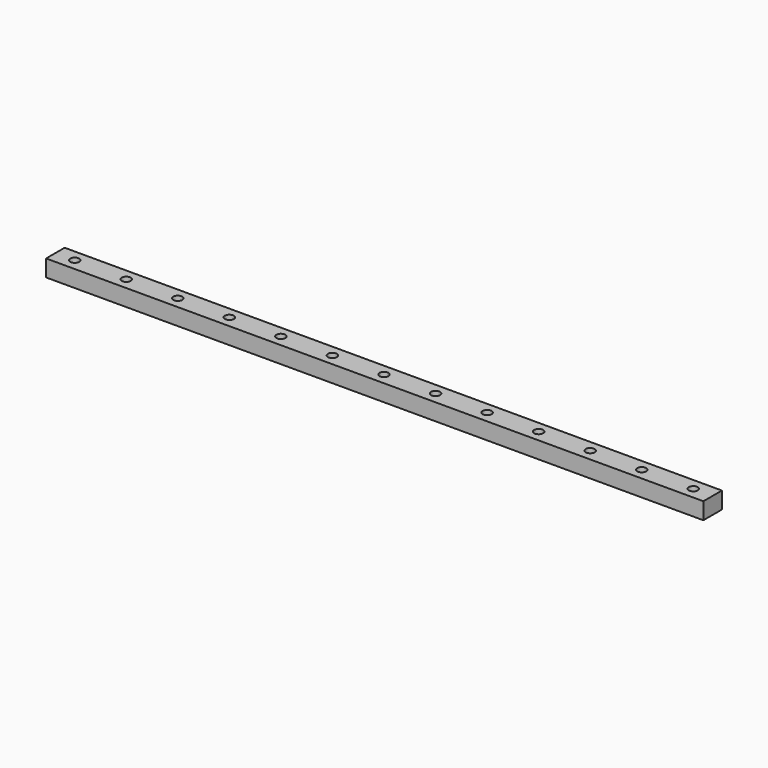
from build123d import *

# Parameters (mm, degrees)
SKETCH_W            = 255
SKETCH_H            = 9
PAD_DEPTH           = 6.5
SKETCH001_R         = 1.75
POCKET_DEPTH        = 6.5
LINEARPATTERN_COUNT = 13
LINEARPATTERN_PITCH = 20


with BuildPart() as part:
    # Sketch → Pad (new body)
    with BuildSketch(Plane.XY):
        with Locations((127.5, 4.5)):
            Rectangle(SKETCH_W, SKETCH_H)
    extrude(amount=PAD_DEPTH)

    # Sketch001 (on Face6 of Pad) → Pocket (cut)
    with BuildSketch(Plane.XY.offset(6.5)):
        with Locations((7.5, 4.5)):
            Circle(SKETCH001_R)
    pocket = extrude(amount=-POCKET_DEPTH, mode=Mode.SUBTRACT)

    # LinearPattern: Pocket ×13
    with Locations(*[(i * LINEARPATTERN_PITCH, 0, 0) for i in range(1, LINEARPATTERN_COUNT)]):
        add(pocket, mode=Mode.SUBTRACT)


solid = part.part
